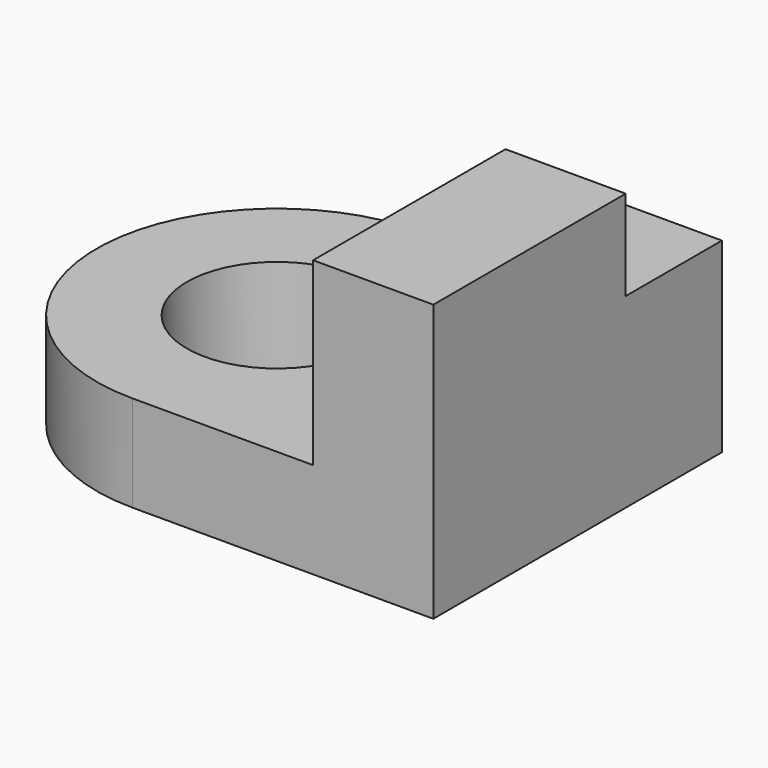
from build123d import *

# Parameters (mm, degrees)
F1_DEPTH = 10.16
F2_W     = 12.7
F2_H     = 25.4
F3_DEPTH = 15.24
F4_W     = 12.7
F4_H     = 12.7
F5_DEPTH = 9.525
F6_DEPTH = 3.81


with BuildPart() as f1:
    # F0 (on Top) → F1 (new body)
    with BuildSketch(Plane.XY):
        with BuildLine():
            Line((15.875, -19.05), (15.875, 19.05))
            Line((15.875, 19.05), (-15.875, 19.05))
            ThreePointArc((-15.875, 19.05), (-2.4046158184, 13.4703841816), (3.175, 0))
            ThreePointArc((3.175, 0), (-2.4046158184, -13.4703841816), (-15.875, -19.05))
            Line((-15.875, -19.05), (15.875, -19.05))
        make_face()
        with BuildLine():
            ThreePointArc((3.175, 0), (-2.4046158184, 13.4703841816), (-15.875, 19.05))
            Line((-15.875, 19.05), (-15.875, 9.525))
            ThreePointArc((-15.875, 9.525), (-9.1398079092, 6.7351920908), (-6.35, 0))
            ThreePointArc((-6.35, 0), (-9.1398079092, -6.7351920908), (-15.875, -9.525))
            Line((-15.875, -9.525), (-15.875, -19.05))
            ThreePointArc((-15.875, -19.05), (-2.4046158184, -13.4703841816), (3.175, 0))
        make_face()
        with BuildLine():
            Line((-15.875, 9.525), (-15.875, 19.05))
            ThreePointArc((-15.875, 19.05), (-34.925, 0), (-15.875, -19.05))
            Line((-15.875, -19.05), (-15.875, -9.525))
            ThreePointArc((-15.875, -9.525), (-25.4, 0), (-15.875, 9.525))
        make_face()
    extrude(amount=F1_DEPTH)

    # F2 (on face) → F3 (join)
    with BuildSketch(Plane.XY.offset(10.16)):
        with Locations((9.525, -6.35)):
            Rectangle(F2_W, F2_H)
    extrude(amount=F3_DEPTH)

    # F4 (on face) → F5 (join)
    with BuildSketch(Plane.XY.offset(10.16)):
        with Locations((9.525, 12.7)):
            Rectangle(F4_W, F4_H)
    extrude(amount=F5_DEPTH)

    # F6 (add): a face of the model
    f6_faces = [f1.faces().sort_by_distance(p)[0] for p in [
        (9.525, -6.35, 25.4),
    ]]
    extrude(f6_faces, amount=F6_DEPTH)


solid = f1.part
